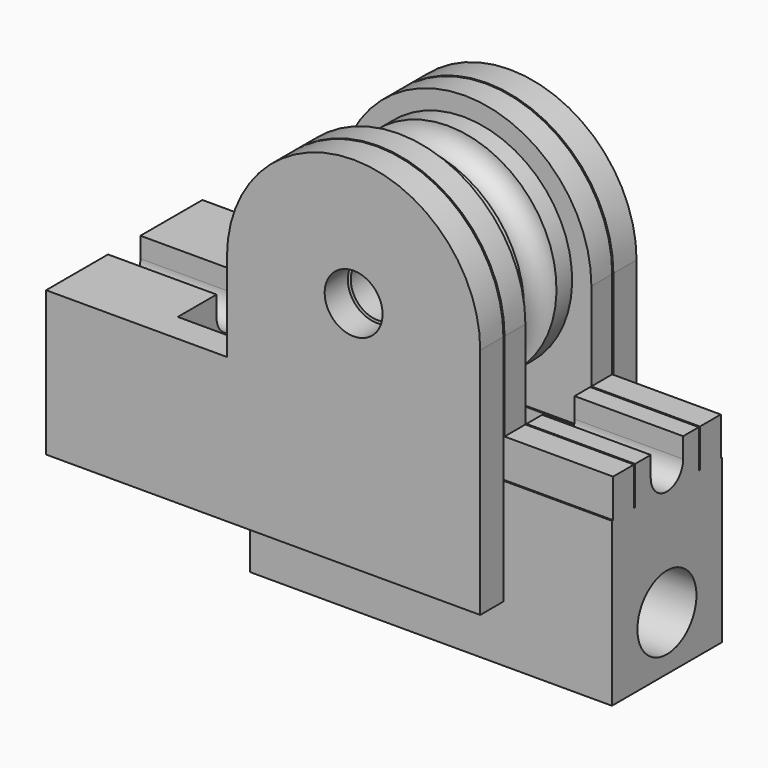
from build123d import *

# Parameters (mm, degrees)
F3_DEPTH  = 2.54
F5_W      = 12.065
F5_H      = 9.525
F6_DEPTH  = 22.225
F7_R      = 3.2385
F8_DEPTH  = 22.225
F10_DEPTH = 2.54
F12_W     = 9.525
F12_H     = 12.7
F13_DEPTH = 12.065
F15_DEPTH = 9.525
F16_R     = 3.2385
F17_DEPTH = 9.525
F18_R     = 3.175
F19_DEPTH = 9.525
F20_W     = 0.127
F20_H     = 11.1125
F22_W     = 0.127
F22_H     = 11.1125
F23_DEPTH = 31.751


with BuildPart() as f1:
    # F0 (on Right) → F1 (revolve)
    with BuildSketch(Plane.YZ):
        with BuildLine():
            Line((-3.4925, 9.525), (-3.4925, 0))
            Line((-3.4925, 0), (3.4925, 0))
            Line((3.4925, 0), (3.4925, 9.525))
            Line((3.4925, 9.525), (1.778, 9.525))
            ThreePointArc((1.778, 9.525), (0, 7.747), (-1.778, 9.525))
            Line((-1.778, 9.525), (-3.4925, 9.525))
        make_face()
    revolve(axis=Axis((0, 0, 0), (0, 1, 0)))


with BuildPart() as f3:
    # F2 (on face) → F3 (new body)
    with BuildSketch(Plane.XZ.offset(3.4925)):
        with BuildLine():
            Line((11.1125, -15.875), (11.1125, 0))
            ThreePointArc((11.1125, 0), (0, 11.1125), (-11.1125, 0))
            Line((-11.1125, 0), (-11.1125, -15.875))
            Line((-11.1125, -15.875), (11.1125, -15.875))
        make_face()
    extrude(amount=F3_DEPTH)


with BuildPart() as f4_1:
    # F4: instance of F3
    add(f3.part.mirror(Plane.XZ))


with BuildPart() as f3_1:
    add(f3.part)

    add(f4_1.part)  # F6 merges F4_1
    # F5 (on face) → F6 (join, through all)
    with BuildSketch(Plane.YZ.offset(11.1125)):
        with Locations((0, -20.6375)):
            Rectangle(F5_W, F5_H)
    extrude(amount=-F6_DEPTH)

    # F7 (on face) → F8 (cut, through all)
    with BuildSketch(Plane.YZ.offset(11.1125)):
        with Locations((0, -20.6375)):
            Circle(F7_R)
    extrude(amount=-F8_DEPTH, mode=Mode.SUBTRACT)

    # F16 (on face) → F17 (join)
    with BuildSketch(Plane.YZ.offset(11.1125)):
        with BuildLine():
            Line((1.778, -7.747), (1.778, -9.525))
            ThreePointArc((1.778, -9.525), (0, -11.303), (-1.778, -9.525))
            Line((-1.778, -9.525), (-1.778, -7.747))
            Line((-1.778, -7.747), (-6.0325, -7.747))
            Line((-6.0325, -7.747), (-6.0325, -25.4))
            Line((-6.0325, -25.4), (6.0325, -25.4))
            Line((6.0325, -25.4), (6.0325, -7.747))
            Line((6.0325, -7.747), (1.778, -7.747))
        make_face()
        with Locations((0, -20.6375)):
            Circle(F16_R, mode=Mode.SUBTRACT)
    extrude(amount=F17_DEPTH)

    # F20 (on Right) → F21 (revolve, cut)
    with BuildSketch(Plane.YZ):
        with Locations((-3.556, 5.55625)):
            Rectangle(F20_W, F20_H)
        with Locations((3.556, 5.55625)):
            Rectangle(F20_W, F20_H)
        with Locations((5.969, 5.55625)):
            Rectangle(F20_W, F20_H)
        with Locations((-5.969, 5.55625)):
            Rectangle(F20_W, F20_H)
    revolve(axis=Axis((0, -3.556, 0), (0, -1, 0)), mode=Mode.SUBTRACT)

    # F22 (on face) → F23 (cut, through all)
    with BuildSketch(Plane(origin=(-11.1125, 0, 0), x_dir=(0, -1, 0), z_dir=(-1, 0, 0))):
        with Locations((5.969, -5.55625)):
            Rectangle(F22_W, F22_H)
        with Locations((-5.969, -5.55625)):
            Rectangle(F22_W, F22_H)
        with Locations((-3.556, -5.55625)):
            Rectangle(F22_W, F22_H)
        with Locations((3.556, -5.55625)):
            Rectangle(F22_W, F22_H)
    extrude(amount=-F23_DEPTH, mode=Mode.SUBTRACT)


with BuildPart() as f10:
    # F9 (on face) → F10 (new body)
    with BuildSketch(Plane.XZ.offset(6.0325)):
        with BuildLine():
            Line((-26.9875, -20.447), (-11.1125, -20.447))
            Line((-11.1125, -20.447), (11.1125, -20.447))
            Line((11.1125, -20.447), (11.1125, 0))
            ThreePointArc((11.1125, 0), (0, 11.1125), (-11.1125, 0))
            Line((-11.1125, 0), (-11.1125, -7.747))
            Line((-11.1125, -7.747), (-26.9875, -7.747))
            Line((-26.9875, -7.747), (-26.9875, -20.447))
        make_face()
    extrude(amount=F10_DEPTH)


with BuildPart() as f11_1:
    # F11: instance of F10
    add(f10.part.mirror(Plane.XZ))


with BuildPart() as f10_1:
    add(f10.part)

    add(f11_1.part)  # F13 merges F11_1
    # F12 (on face) → F13 (join, through all)
    with BuildSketch(Plane.XZ.offset(-6.0325)):
        with Locations((-22.225, -14.097)):
            Rectangle(F12_W, F12_H)
    extrude(amount=F13_DEPTH)

    # F14 (on face) → F15 (cut, through all)
    with BuildSketch(Plane(origin=(-26.9875, 0, 0), x_dir=(0, -1, 0), z_dir=(-1, 0, 0))):
        with BuildLine():
            Line((-1.778, -7.747), (-1.778, -9.525))
            ThreePointArc((-1.778, -9.525), (0, -11.303), (1.778, -9.525))
            Line((1.778, -9.525), (1.778, -7.747))
            Line((1.778, -7.747), (-1.778, -7.747))
        make_face()
    extrude(amount=-F15_DEPTH, mode=Mode.SUBTRACT)

    # F18 (on face) → F19 (cut, through all)
    with BuildSketch(Plane(origin=(-26.9875, 0, 0), x_dir=(0, -1, 0), z_dir=(-1, 0, 0))):
        with Locations((0, -15.875)):
            Circle(F18_R)
    extrude(amount=-F19_DEPTH, mode=Mode.SUBTRACT)


with BuildPart() as f25_tool:
    # F24 (on Right) → F25 (revolve)
    with BuildSketch(Plane.YZ):
        Polygon((-8.5725, 0), (8.5725, 0), (8.5725, 2.54), (6.0325, 2.54), (6.0325, 2.38125), (-6.0325, 2.38125), (-6.0325, 2.54), (-8.5725, 2.54), align=None)
    revolve(axis=Axis((0, 0, 0), (0, -1, 0)))


with BuildPart() as f1_1:
    add(f1.part)

    # F25: cut by f25_tool
    add(f25_tool.part, mode=Mode.SUBTRACT)


with BuildPart() as f3_2:
    add(f3_1.part)

    # F25: cut by f25_tool
    add(f25_tool.part, mode=Mode.SUBTRACT)


with BuildPart() as f10_2:
    add(f10_1.part)

    # F25: cut by f25_tool
    add(f25_tool.part, mode=Mode.SUBTRACT)


solid = Compound([f1_1.part, f3_2.part, f10_2.part])
